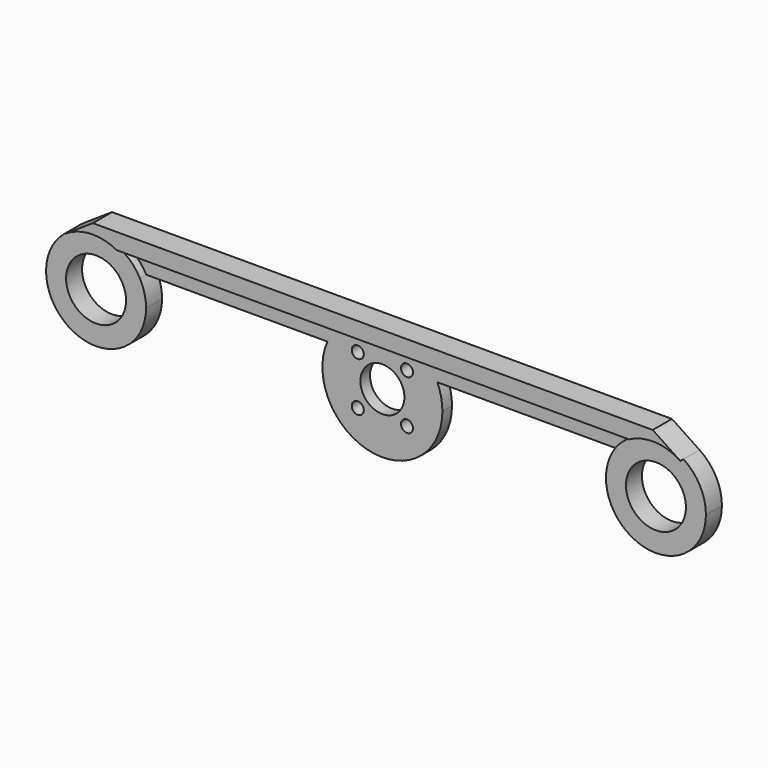
from build123d import *

# Parameters (mm, degrees)
F0_R     = 1.5
F0_R_2   = 5.5
F1_DEPTH = 3
F0_R_3   = 7.5
F2_DEPTH = 5
F4_DEPTH = 3


with BuildPart() as f1:
    # F0 (on Front) → F1 (new body)
    with BuildSketch(Plane.XZ):
        with BuildLine():
            ThreePointArc((15, 0), (14.683594694, 3.0646446553), (13.7477270849, 6))
            ThreePointArc((13.7477270849, 6), (8.2158383626, 12.549900398), (0, 15))
            ThreePointArc((0, 15), (-8.2158383626, 12.549900398), (-13.7477270849, 6))
            ThreePointArc((-13.7477270849, 6), (-3.0646446553, -14.683594694), (15, 0))
        make_face()
        with Locations((-6.1518289963, -6.1518289963)):
            Circle(F0_R, mode=Mode.SUBTRACT)
        with Locations((6.1518289963, -6.1518289963)):
            Circle(F0_R, mode=Mode.SUBTRACT)
        with Locations((-6.1518289963, 6.1518289963)):
            Circle(F0_R, mode=Mode.SUBTRACT)
        Circle(F0_R_2, mode=Mode.SUBTRACT)
        with Locations((6.1518289963, 6.1518289963)):
            Circle(F0_R, mode=Mode.SUBTRACT)
        with BuildLine():
            ThreePointArc((59.0341439003, 6), (67.0016723737, 12.135074431), (76.9096349799, 10.4166666667))
            Line((76.9096349799, 10.4166666667), (70, 15))
            Line((70, 15), (0, 15))
            ThreePointArc((0, 15), (8.2158383626, 12.549900398), (13.7477270849, 6))
            Line((13.7477270849, 6), (59.0341439003, 6))
        make_face()
        with BuildLine():
            ThreePointArc((-13.7477270849, 6), (-8.2158383626, 12.549900398), (0, 15))
            Line((0, 15), (-70, 15))
            Line((-70, 15), (-76.9096349799, 10.4166666667))
            ThreePointArc((-76.9096349799, 10.4166666667), (-67.0016723737, 12.135074431), (-59.0341439003, 6))
            Line((-59.0341439003, 6), (-13.7477270849, 6))
        make_face()
    extrude(amount=F1_DEPTH)

    # F0 (on Front) → F2 (join)
    with BuildSketch(Plane.XZ):
        with BuildLine():
            ThreePointArc((59.0341439003, 6), (66.9034859315, -12.1103922572), (82.5, 0))
            ThreePointArc((82.5, 0), (81.0140918202, 5.9109881894), (76.9096349799, 10.4166666667))
            ThreePointArc((76.9096349799, 10.4166666667), (67.0016723737, 12.135074431), (59.0341439003, 6))
        make_face()
        with Locations((70, 0)):
            Circle(F0_R_3, mode=Mode.SUBTRACT)
        with BuildLine():
            ThreePointArc((-57.5, 0), (-57.8896077428, 3.0965140685), (-59.0341439003, 6))
            ThreePointArc((-59.0341439003, 6), (-67.0016723737, 12.135074431), (-76.9096349799, 10.4166666667))
            ThreePointArc((-76.9096349799, 10.4166666667), (-75.9109881894, -11.0140918202), (-57.5, 0))
        make_face()
        with Locations((-70, 0)):
            Circle(F0_R_3, mode=Mode.SUBTRACT)
    extrude(amount=F2_DEPTH)

    # F3 (on face) → F4 (join)
    with BuildSketch(Plane.XZ.offset(3)):
        with BuildLine():
            Line((0, 11), (64.0628289565, 11))
            ThreePointArc((64.0628289565, 11), (70.5670017384, 12.4871337395), (76.9096349799, 10.4166666667))
            Line((76.9096349799, 10.4166666667), (70, 15))
            Line((70, 15), (-70, 15))
            Line((-70, 15), (-76.9096349799, 10.4166666667))
            ThreePointArc((-76.9096349799, 10.4166666667), (-70.5670017384, 12.4871337395), (-64.0628289565, 11))
            Line((-64.0628289565, 11), (0, 11))
        make_face()
    extrude(amount=F4_DEPTH)


solid = f1.part
